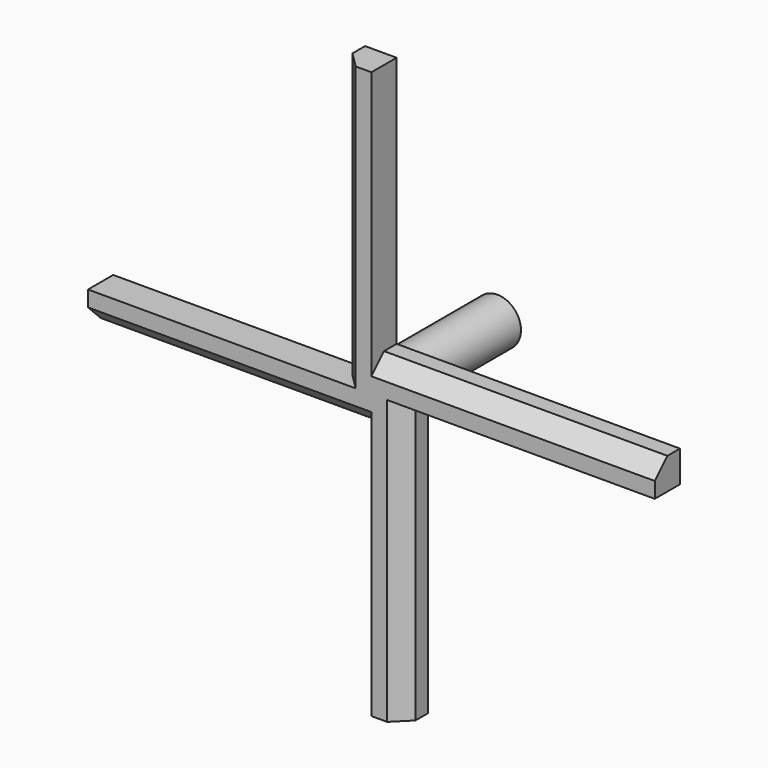
from build123d import *

# Parameters (mm, degrees)
F1_DEPTH = 10
F2_SIZE  = 5
F3_R     = 7.5
F4_DEPTH = 40


with BuildPart() as f1:
    # F0 (on Front) → F1 (new body)
    with BuildSketch(Plane.XZ):
        with BuildLine():
            ThreePointArc((-10, 0), (-7.0710678119, 7.0710678119), (0, 10))
            Line((0, 10), (0, 90))
            Line((0, 90), (-10, 90))
            Line((-10, 90), (-10, 0))
        make_face()
        with BuildLine():
            ThreePointArc((0, -10), (-7.0710678119, -7.0710678119), (-10, 0))
            Line((-10, 0), (-90, 0))
            Line((-90, 0), (-90, -10))
            Line((-90, -10), (0, -10))
        make_face()
        with BuildLine():
            Line((10, -90), (10, 0))
            ThreePointArc((10, 0), (7.0710678119, -7.0710678119), (0, -10))
            Line((0, -10), (0, -90))
            Line((0, -90), (10, -90))
        make_face()
        with BuildLine():
            Line((0, 10), (0, 0))
            Line((0, 0), (10, 0))
            ThreePointArc((10, 0), (7.0710678119, 7.0710678119), (0, 10))
        make_face()
        with BuildLine():
            Line((10, 0), (0, 0))
            Line((0, 0), (0, -10))
            ThreePointArc((0, -10), (7.0710678119, -7.0710678119), (10, 0))
        make_face()
        with BuildLine():
            Line((-10, 0), (0, 0))
            Line((0, 0), (0, 10))
            ThreePointArc((0, 10), (-7.0710678119, 7.0710678119), (-10, 0))
        make_face()
        with BuildLine():
            Line((0, -10), (0, 0))
            Line((0, 0), (-10, 0))
            ThreePointArc((-10, 0), (-7.0710678119, -7.0710678119), (0, -10))
        make_face()
        with BuildLine():
            ThreePointArc((0, 10), (7.0710678119, 7.0710678119), (10, 0))
            Line((10, 0), (90, 0))
            Line((90, 0), (90, 10))
            Line((90, 10), (0, 10))
        make_face()
    extrude(amount=F1_DEPTH)

    # F2
    f2_edges = [f1.edges().sort_by_distance(p)[0] for p in [
        (-10, -10, 45),
        (-45, -10, -10),
        (10, -10, -45),
        (45, -10, 10),
    ]]
    chamfer(f2_edges, length=F2_SIZE)

    # F3 (on Front) → F4 (join)
    with BuildSketch(Plane.XZ):
        Circle(F3_R)
    extrude(amount=-F4_DEPTH)


solid = f1.part
